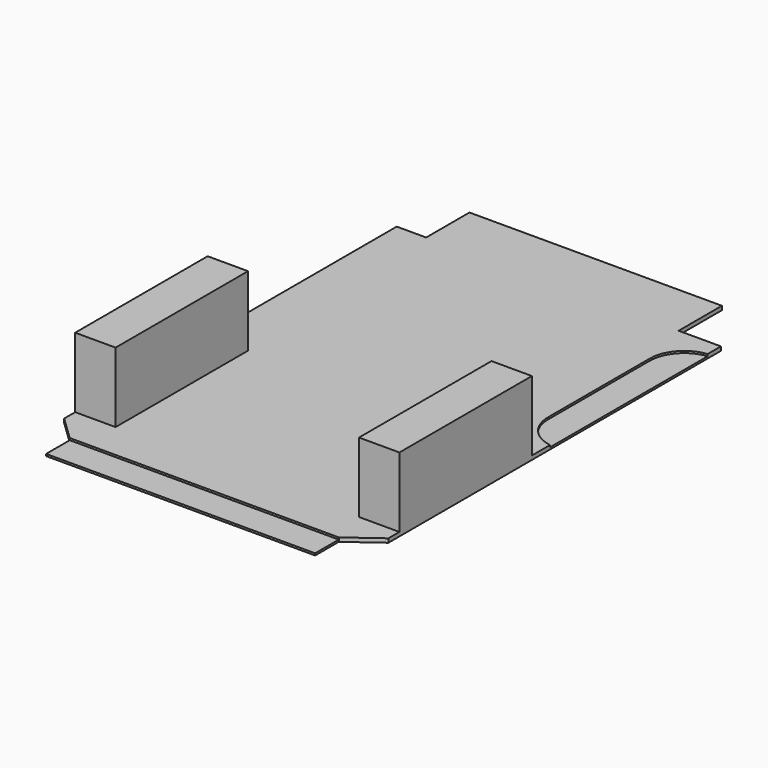
from build123d import *

# Parameters (mm, degrees)
F1_DEPTH = 2
F2_DEPTH = 1
F0_W     = 20.5
F0_H     = 84
F3_DEPTH = 37.5


with BuildPart() as f1:
    # F0 (on Top) → F1 (new body)
    with BuildSketch(Plane.XY):
        with BuildLine():
            Line((-51.746925, 15), (84.753075, 15))
            Line((84.753075, 15), (100.597961, 26.64865))
            Line((100.597961, 26.64865), (100.597961, 33.64865))
            Line((100.597961, 33.64865), (80.097961, 33.64865))
            Line((80.097961, 33.64865), (80.097961, 117.64865))
            Line((80.097961, 117.64865), (100.597961, 117.64865))
            Line((100.597961, 117.64865), (100.597961, 129.14865))
            ThreePointArc((100.597961, 129.14865), (89.497411, 135.405037), (85.097961, 147.363693))
            Line((85.097961, 147.363693), (85.097961, 211.818904))
            ThreePointArc((85.097961, 211.818904), (89.538305, 223.443985), (100.597961, 229.14865))
            Line((100.597961, 229.14865), (100.597961, 237.548321))
            Line((100.597961, 237.548321), (79.1298, 237.548321))
            Line((79.1298, 237.548321), (79.1298, 265))
            Line((79.1298, 265), (-48.949795, 265))
            Line((-48.949795, 265), (-48.949795, 237.548321))
            Line((-48.949795, 237.548321), (-63.902039, 237.548321))
            Line((-63.902039, 237.548321), (-63.902039, 180.590159))
            Line((-63.902039, 180.590159), (-63.902039, 117.64865))
            Line((-63.902039, 117.64865), (-43.402039, 117.64865))
            Line((-43.402039, 117.64865), (-43.402039, 33.64865))
            Line((-43.402039, 33.64865), (-63.902039, 33.64865))
            Line((-63.902039, 33.64865), (-63.902039, 26.64865))
            Line((-63.902039, 26.64865), (-51.746925, 15))
        make_face()
    extrude(amount=F1_DEPTH)

    # F0 (on Top) → F2 (join)
    with BuildSketch(Plane.XY):
        with BuildLine():
            ThreePointArc((85.097961, 147.363693), (89.497411, 135.405037), (100.597961, 129.14865))
            Line((100.597961, 129.14865), (100.597961, 229.14865))
            ThreePointArc((100.597961, 229.14865), (89.538305, 223.443985), (85.097961, 211.818904))
            Line((85.097961, 211.818904), (85.097961, 147.363693))
        make_face()
        Polygon((-51.746925, 0), (0, 0), (84.753075, 0), (84.753075, 15), (-51.746925, 15), align=None)
    extrude(amount=F2_DEPTH)

    # F0 (on Top) → F3 (join)
    with BuildSketch(Plane.XY):
        with Locations((90.347961, 75.64865)):
            Rectangle(F0_W, F0_H)
        with Locations((-53.652039, 75.64865)):
            Rectangle(F0_W, F0_H)
    extrude(amount=F3_DEPTH)


solid = f1.part
